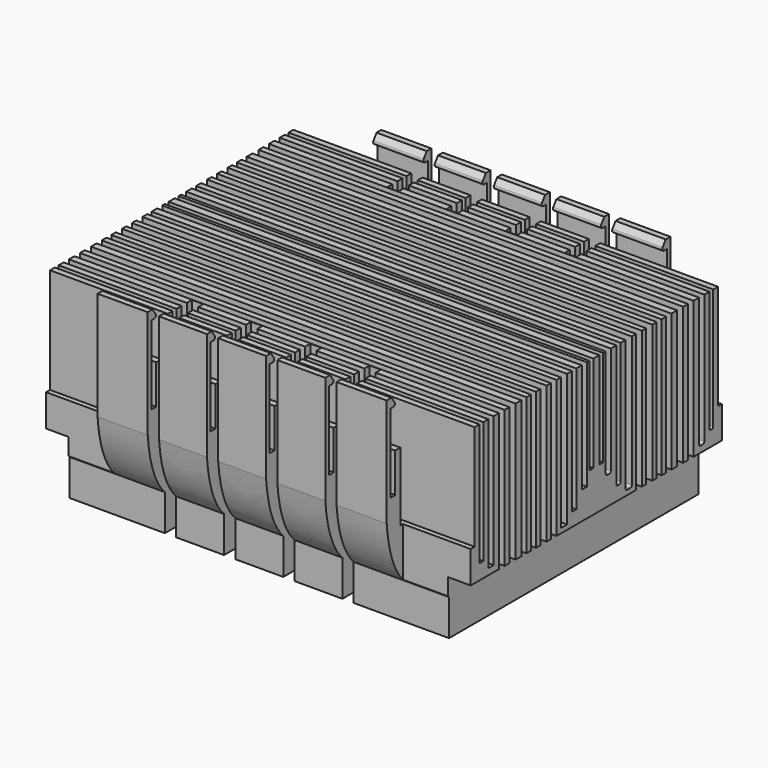
from build123d import *

# Parameters (mm, degrees)
SKETCH_W        = 94
SKETCH_H        = 78.5
PAD_DEPTH       = 45
POCKET_DEPTH    = 354.947355
SKETCH002_W     = 80
SKETCH002_H     = 12
POCKET001_DEPTH = 5
SKETCH003_W     = 18
SKETCH003_H     = 45
POCKET002_DEPTH = 4.5
SKETCH004_W     = 2.5
SKETCH004_H     = 15
POCKET003_DEPTH = 305.947355
POCKET004_DEPTH = 354.947355
FILLET_R        = 0.5
FILLET001_R     = 0.4


with BuildPart() as part:
    # Sketch → Pad (new body)
    with BuildSketch(Plane.XY):
        Rectangle(SKETCH_W, SKETCH_H)
    extrude(amount=PAD_DEPTH)

    # Sketch001 (on Face2 of Pad) → Pocket (cut, through all)
    with BuildSketch(Plane.YZ.offset(47)):
        with BuildLine():
            Line((-39.25, 45), (-39.25, 21))
            add(Edge.make_bspline(
                [(-39.25, 21), (-38.492661, 12.046706), (-34.5, 8)],
                knots=[0, 0, 0, 1, 1, 1], degree=2))
            Line((-34.5, 8), (-34.5, -2))
            Line((-34.5, -2), (-44.25, -2))
            Line((-44.25, -2), (-44.25, 48))
            Line((-44.25, 48), (-39.25, 48))
            Line((-39.25, 48), (-39.25, 45))
        make_face()
    pocket = extrude(amount=-POCKET_DEPTH, mode=Mode.SUBTRACT)

    # Mirrored: Pocket across XZ
    add(pocket.mirror(Plane.XZ), mode=Mode.SUBTRACT)

    # Sketch002 (on Face3 of Mirrored) → Pocket001 (cut)
    with BuildSketch(Plane.YZ.offset(47)):
        with Locations((0, 6)):
            Rectangle(SKETCH002_W, SKETCH002_H)
    pocket001 = extrude(amount=-POCKET001_DEPTH, mode=Mode.SUBTRACT)

    # Sketch003 → Pocket002 (cut)
    with BuildSketch(Plane.XZ.offset(39.25)):
        with Locations((41, 22.5)):
            Rectangle(SKETCH003_W, SKETCH003_H)
        with Locations((-41, 22.5)):
            Rectangle(SKETCH003_W, SKETCH003_H)
    pocket002 = extrude(amount=-POCKET002_DEPTH, mode=Mode.SUBTRACT)

    # Mirrored001: Pocket001 across YZ
    add(pocket001.mirror(Plane.YZ), mode=Mode.SUBTRACT)

    # Mirrored002: Pocket002 across XZ
    add(pocket002.mirror(Plane.XZ), mode=Mode.SUBTRACT)

    # Sketch004 (on Face22 of Mirrored002) → Pocket003 (cut, through all)
    with BuildSketch(Plane(origin=(0, 0, 0), x_dir=(1, 0, 0), z_dir=(0, 0, -1))):
        with Locations((-19.65, 34.5)):
            Rectangle(SKETCH004_W, SKETCH004_H)
        with Locations((-6.55, 34.5)):
            Rectangle(SKETCH004_W, SKETCH004_H)
        with Locations((6.55, 34.5)):
            Rectangle(SKETCH004_W, SKETCH004_H)
        with Locations((19.65, 34.5)):
            Rectangle(SKETCH004_W, SKETCH004_H)
    pocket003 = extrude(amount=-POCKET003_DEPTH, mode=Mode.SUBTRACT)

    # Mirrored003: Pocket003 across XZ
    add(pocket003.mirror(Plane.XZ), mode=Mode.SUBTRACT)

    # Sketch005 (on Face28 of Mirrored003) → Pocket004 (cut, through all)
    with BuildSketch(Plane.YZ.offset(47)):
        Polygon((38.25, 25.622268), (38.25, 42.998202), (36.517265, 42.998202), (38.777225, 46.159061), (0, 46.159061), (0, 42.412102), (0.829261, 42.412102), (0.829261, 21.090189), (1.904185, 21.090189), (1.904185, 42.412102), (2.598733, 42.412102), (2.598733, 18.183864), (4.014415, 18.183864), (4.014415, 42.412102), (5.546711, 42.412102), (5.546711, 14.964403), (6.754822, 14.964403), (6.754822, 42.412102), (8.103997, 42.412102), (8.103997, 13.05946), (9.811914, 13.05946), (9.811914, 42.412102), (11.012073, 42.412102), (11.012073, 11.551247), (12.587415, 11.551247), (12.587415, 42.412102), (13.756799, 42.412102), (13.756799, 10.629466), (15.490436, 10.629466), (15.490436, 42.412102), (16.716197, 42.412102), (16.716197, 10.102149), (18.05093, 10.102149), (18.05093, 42.412102), (19.318615, 42.412102), (19.318615, 10.103262), (20.764729, 10.103262), (20.764729, 42.412102), (22.348564, 42.412102), (22.348564, 10.718383), (24.047173, 10.718383), (24.047173, 42.412102), (25.378515, 42.412102), (25.378515, 11.749962), (26.916443, 11.749962), (26.916443, 42.412102), (28.431421, 42.412102), (28.431421, 13.391452), (29.877531, 13.391452), (29.877531, 42.412102), (31.277737, 42.412102), (31.277737, 15.334489), (32.333626, 15.334489), (32.333626, 42.412102), (33.66497, 42.412102), (33.66497, 19.098833), (35.502956, 19.098833), (35.502956, 34.299774), (36.930859, 34.299774), (36.930859, 25.622268), align=None)
    pocket004 = extrude(amount=-POCKET004_DEPTH, mode=Mode.SUBTRACT)

    # Mirrored004: Pocket004 across Sketch005 V_Axis
    add(pocket004.mirror(Plane(origin=(47, 0, 0), x_dir=(1, 0, 0), z_dir=(0, 1, 0))), mode=Mode.SUBTRACT)

    # Fillet
    fillet_edges = [part.edges().sort_by_distance(p)[0] for p in [
        (26.45, -36.517265, 42.998202),
        (13.1, -36.517265, 42.998202),
        (0, -36.517265, 42.998202),
        (-13.1, -36.517265, 42.998202),
        (-26.45, -36.517265, 42.998202),
        (26.45, 36.517265, 42.998202),
        (13.1, 36.517265, 42.998202),
        (0, 36.517265, 42.998202),
        (-13.1, 36.517265, 42.998202),
        (-26.45, 36.517265, 42.998202),
    ]]
    fillet(fillet_edges, radius=FILLET_R)

    # Fillet001
    fillet001_edges = [part.edges().sort_by_distance(p)[0] for p in [
        (26.45, 36.930859, 25.622268),
        (26.45, 38.25, 25.622268),
        (26.45, 35.502956, 19.098833),
        (33.95, 33.66497, 19.098833),
        (33.95, 32.333626, 15.334489),
        (33.95, 31.277737, 15.334489),
        (33.95, 29.877531, 13.391452),
        (33.95, 28.431421, 13.391452),
        (0, 26.916443, 11.749962),
        (0, 25.378515, 11.749962),
        (0, 24.047173, 10.718383),
        (0, 22.348564, 10.718383),
        (0, 20.764729, 10.103262),
        (0, 19.318615, 10.103262),
        (0, 18.05093, 10.102149),
        (0, 16.716197, 10.102149),
        (0, 15.490436, 10.629466),
        (0, 13.756799, 10.629466),
        (0, 12.587415, 11.551247),
        (0, 11.012073, 11.551247),
        (0, 9.811914, 13.05946),
        (0, 8.103997, 13.05946),
        (0, 6.754822, 14.964403),
        (0, 5.546711, 14.964403),
        (0, 4.014415, 18.183864),
        (0, 2.598733, 18.183864),
    ]]
    fillet(fillet001_edges, radius=FILLET001_R)


solid = part.part
